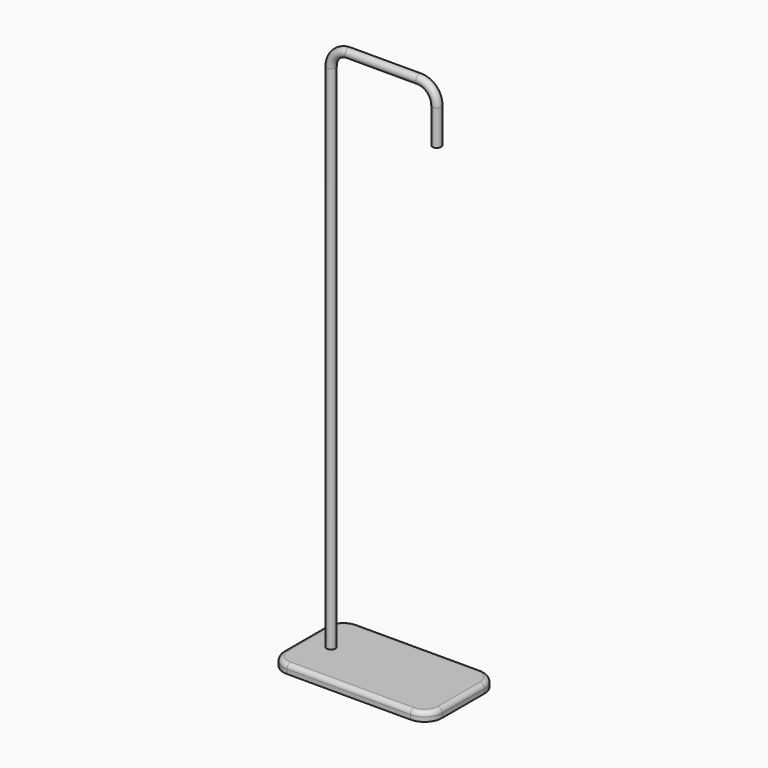
from build123d import *

# Parameters (mm, degrees)
F0_W     = 457.2
F0_H     = 254
F1_DEPTH = 25.4
F2_R     = 50.8
F3_R     = 12.7
F4_R     = 12.7


with BuildPart() as f1:
    # F0 (on Top) → F1 (new body)
    with BuildSketch(Plane.XY):
        with Locations((152.4, 0)):
            Rectangle(F0_W, F0_H)
    extrude(amount=-F1_DEPTH)

    # F2
    f2_edges = [f1.edges().sort_by_distance(p)[0] for p in [
        (-76.2, -127, -12.7),
        (381, -127, -12.7),
        (381, 127, -12.7),
        (-76.2, 127, -12.7),
    ]]
    fillet(f2_edges, radius=F2_R)

    # F3
    f3_edges = [f1.edges().sort_by_distance(p)[0] for p in [
        (152.4, -127, 0),
    ]]
    fillet(f3_edges, radius=F3_R)

    # F6: sweep along a path in F5
    with BuildLine(Plane.XZ) as f6_path:
        Line((0, 0), (0, 1473.2))
        ThreePointArc((0, 1473.2), (14.8789755157, 1509.1210244843), (50.8, 1524))
        Line((50.8, 1524), (254, 1524))
        ThreePointArc((254, 1524), (289.9210244843, 1509.1210244843), (304.8, 1473.2))
        Line((304.8, 1473.2), (304.8, 1371.6))
    # F4 (on face) → F6 (sweep)
    with BuildSketch(Plane.XY):
        Circle(F4_R)
    sweep(path=f6_path.line)


solid = f1.part
